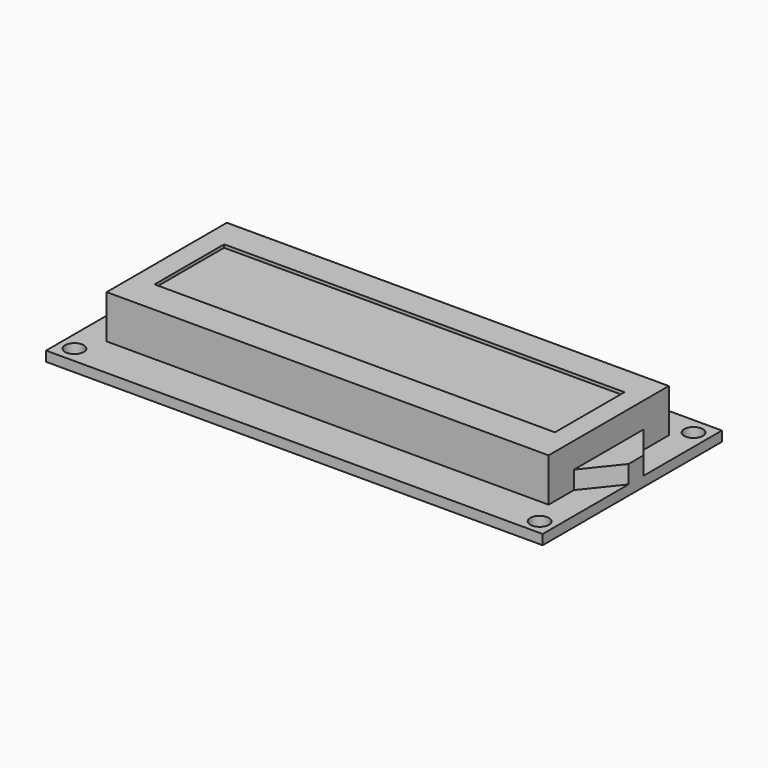
from build123d import *

# Parameters (mm, degrees)
F0_W     = 80
F0_H     = 36.1
F0_R     = 1.5
F0_R_2   = 0.55
F1_DEPTH = 1.6
F3_DEPTH = 7
F4_DEPTH = 2.9
F5_W     = 64.5
F5_H     = 14
F6_DEPTH = 0.5


with BuildPart() as f1:
    # F0 (on Top) → F1 (new body)
    with BuildSketch(Plane.XY):
        Rectangle(F0_W, F0_H)
        with Locations((-37.55, -15.4)):
            Circle(F0_R, mode=Mode.SUBTRACT)
        with Locations((37.55, -15.6)):
            Circle(F0_R, mode=Mode.SUBTRACT)
        with Locations((-37.45, 15.6)):
            Circle(F0_R, mode=Mode.SUBTRACT)
        with Locations((-31.93, 15.67)):
            Circle(F0_R_2, mode=Mode.SUBTRACT)
        with Locations((-29.43, 15.67)):
            Circle(F0_R_2, mode=Mode.SUBTRACT)
        with Locations((-26.93, 15.67)):
            Circle(F0_R_2, mode=Mode.SUBTRACT)
        with Locations((-24.43, 15.67)):
            Circle(F0_R_2, mode=Mode.SUBTRACT)
        with Locations((-21.93, 15.67)):
            Circle(F0_R_2, mode=Mode.SUBTRACT)
        with Locations((-19.43, 15.67)):
            Circle(F0_R_2, mode=Mode.SUBTRACT)
        with Locations((-16.93, 15.67)):
            Circle(F0_R_2, mode=Mode.SUBTRACT)
        with Locations((-14.43, 15.67)):
            Circle(F0_R_2, mode=Mode.SUBTRACT)
        with Locations((-11.93, 15.67)):
            Circle(F0_R_2, mode=Mode.SUBTRACT)
        with Locations((-9.43, 15.67)):
            Circle(F0_R_2, mode=Mode.SUBTRACT)
        with Locations((-6.93, 15.67)):
            Circle(F0_R_2, mode=Mode.SUBTRACT)
        with Locations((-4.43, 15.67)):
            Circle(F0_R_2, mode=Mode.SUBTRACT)
        with Locations((-1.93, 15.67)):
            Circle(F0_R_2, mode=Mode.SUBTRACT)
        with Locations((0.57, 15.67)):
            Circle(F0_R_2, mode=Mode.SUBTRACT)
        with Locations((3.07, 15.67)):
            Circle(F0_R_2, mode=Mode.SUBTRACT)
        with Locations((5.57, 15.67)):
            Circle(F0_R_2, mode=Mode.SUBTRACT)
        with Locations((37.55, 15.4)):
            Circle(F0_R, mode=Mode.SUBTRACT)
    extrude(amount=F1_DEPTH)

    # F2 (on face) → F3 (join)
    with BuildSketch(Plane.XY.offset(1.6)):
        Polygon((-35.6, 12.85), (-35.6, -11.35), (35.6, -11.35), (35.6, -6.25), (35.6, 7.75), (35.6, 12.85), align=None)
    extrude(amount=F3_DEPTH)

    # F2 (on face) → F4 (join)
    with BuildSketch(Plane.XY.offset(1.6)):
        Polygon((-35.6, 12.85), (-35.6, -11.35), (35.6, -11.35), (35.6, -6.25), (35.6, 7.75), (35.6, 12.85), align=None)
        Polygon((35.6, 7.75), (35.6, -6.25), (40, -0.75), (40, 2.25), align=None)
    extrude(amount=F4_DEPTH)

    # F5 (on face) → F6 (cut)
    with BuildSketch(Plane.XY.offset(8.6)):
        with Locations((0.05, 1.05)):
            Rectangle(F5_W, F5_H)
    extrude(amount=-F6_DEPTH, mode=Mode.SUBTRACT)


solid = f1.part
